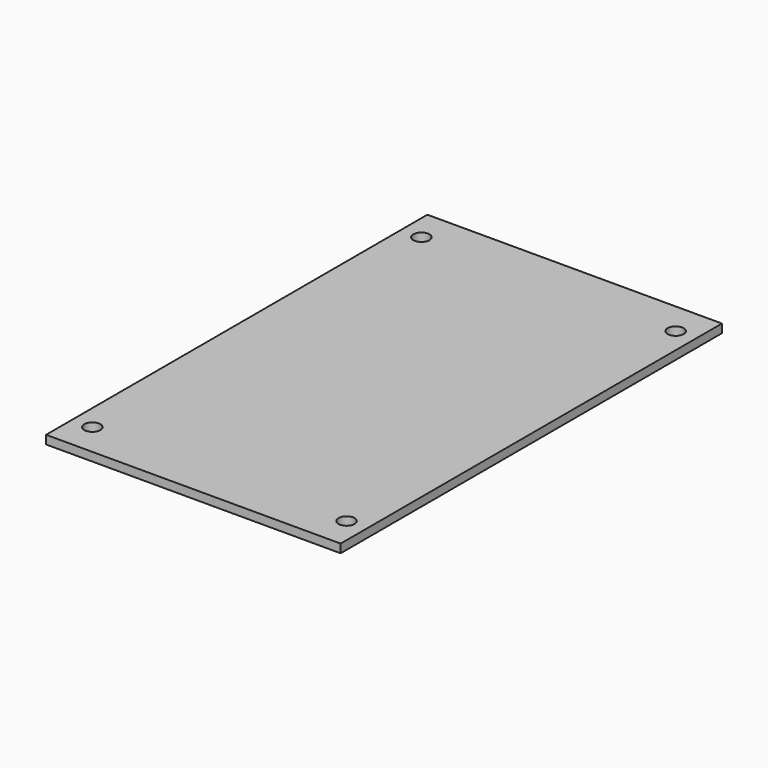
from build123d import *

# Parameters (mm, degrees)
SKETCH_W      = 55
SKETCH_H      = 88.99
SKETCH_R      = 1.5
EXTRUDE_DEPTH = 1.6


with BuildPart() as part:
    # Sketch → Extrude (new body)
    with BuildSketch(Plane.XY):
        Rectangle(SKETCH_W, SKETCH_H)
        with Locations((-23.730992, 38.396745)):
            Circle(SKETCH_R, mode=Mode.SUBTRACT)
        with Locations((23.730992, 38.396745)):
            Circle(SKETCH_R, mode=Mode.SUBTRACT)
        with Locations((-23.730992, -38.396745)):
            Circle(SKETCH_R, mode=Mode.SUBTRACT)
        with Locations((23.730992, -38.396745)):
            Circle(SKETCH_R, mode=Mode.SUBTRACT)
    extrude(amount=EXTRUDE_DEPTH)


solid = part.part
